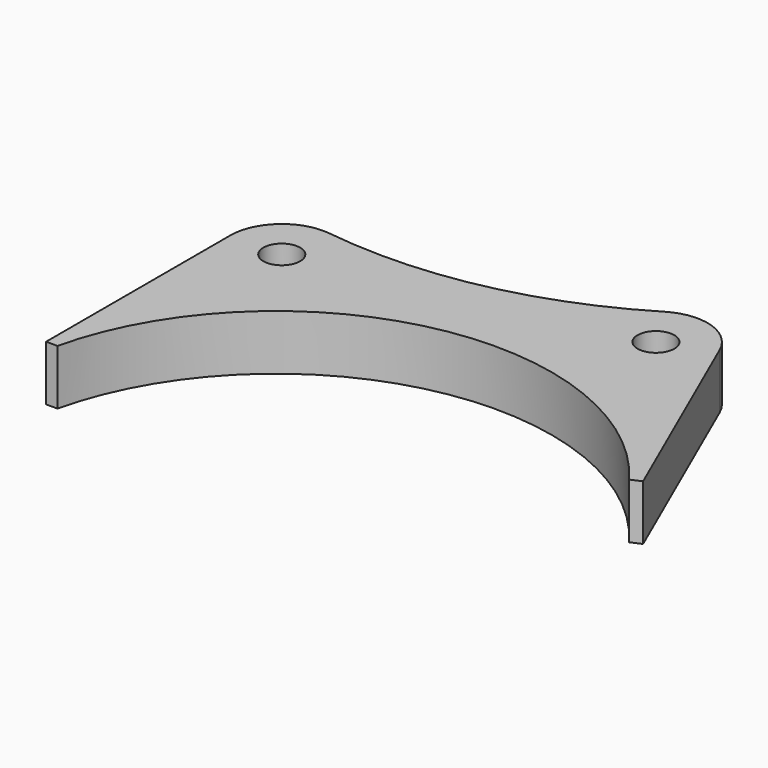
from build123d import *

# Parameters (mm, degrees)
F0_R     = 5
F1_DEPTH = 15


with BuildPart() as f1:
    # F0 (on Top) → F1 (new body)
    with BuildSketch(Plane.XY):
        with BuildLine():
            ThreePointArc((-73.026882, 17.090189), (-15.34069, 73.414326), (60.072808, 44.902758))
            Line((60.072808, 44.902758), (62.89309, 46.135228))
            Line((62.89309, 46.135228), (37.842179, 103.459659))
            ThreePointArc((37.842179, 103.459659), (29.246367, 111.198365), (17.761595, 109.82886))
            ThreePointArc((17.761595, 109.82886), (-19.853627, 95.011416), (-60.254823, 93.526516))
            ThreePointArc((-60.254823, 93.526516), (-71.327003, 90.18251), (-76.104701, 79.64927))
            Line((-76.104701, 79.64927), (-76.104701, 17.090189))
            Line((-76.104701, 17.090189), (-73.026882, 17.090189))
        make_face()
        with Locations((-62.104701, 79.64927)):
            Circle(F0_R, mode=Mode.SUBTRACT)
        with Locations((25.013633, 97.853555)):
            Circle(F0_R, mode=Mode.SUBTRACT)
    extrude(amount=F1_DEPTH)


solid = f1.part
